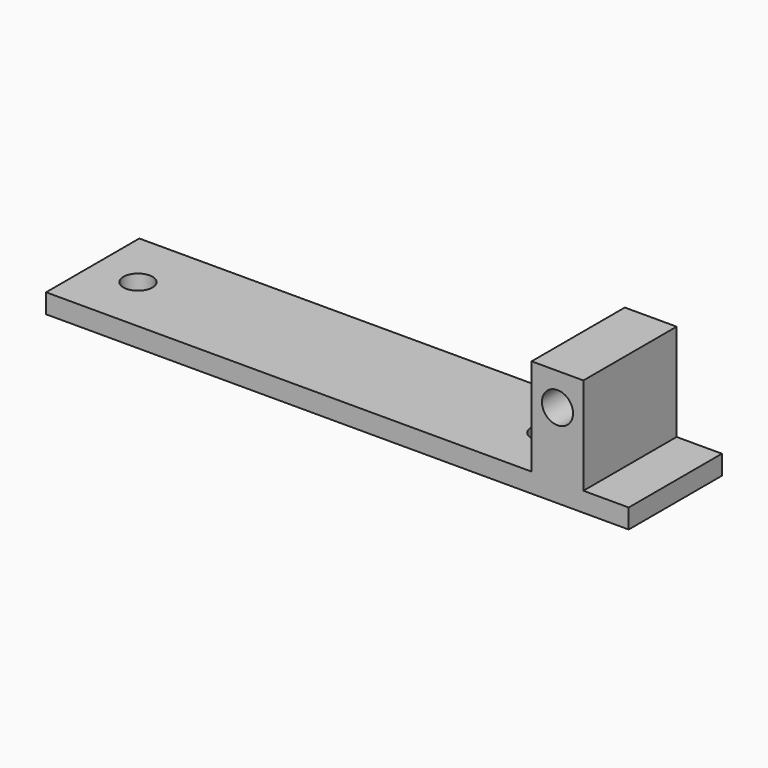
from build123d import *

# Parameters (mm, degrees)
F0_W     = 90
F0_H     = 18
F0_R     = 2.25
F1_DEPTH = 3
F2_W     = 8
F2_H     = 18
F3_DEPTH = 15
F4_R     = 2.4
F5_DEPTH = 18


with BuildPart() as f1:
    # F0 (on Top) → F1 (new body)
    with BuildSketch(Plane.XY):
        with Locations((3.318636, 0)):
            Rectangle(F0_W, F0_H)
        with Locations((-34.681364, 0)):
            Circle(F0_R, mode=Mode.SUBTRACT)
        with Locations((28.318636, 0)):
            Circle(F0_R, mode=Mode.SUBTRACT)
    extrude(amount=F1_DEPTH)

    # F2 (on face) → F3 (join)
    with BuildSketch(Plane.XY.offset(3)):
        with Locations((37.318636, 0)):
            Rectangle(F2_W, F2_H)
    extrude(amount=F3_DEPTH)

    # F4 (on face) → F5 (cut, through all)
    with BuildSketch(Plane(origin=(0, 9, 0), x_dir=(-1, 0, 0), z_dir=(0, 1, 0))):
        with Locations((-37.318636, 13)):
            Circle(F4_R)
    extrude(amount=-F5_DEPTH, mode=Mode.SUBTRACT)


solid = f1.part
